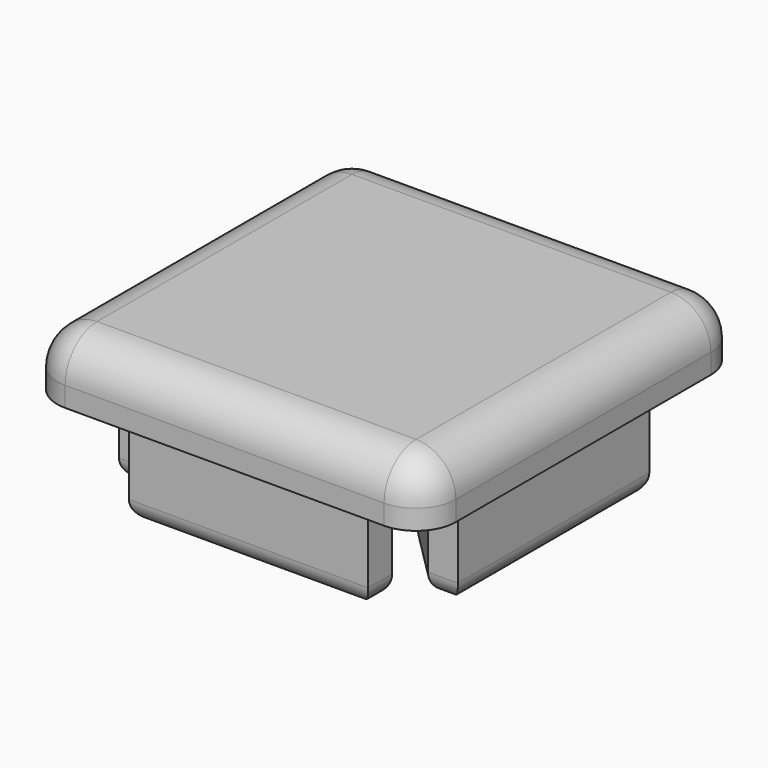
from build123d import *

# Parameters (mm, degrees)
F2_W     = 19.995908
F2_H     = 19.98147
F3_DEPTH = 3
F4_DEPTH = 5
F5_R     = 1
F6_R     = 2
F7_R     = 2


with BuildPart() as f3:
    # F2 (on Top) → F3 (new body)
    with BuildSketch(Plane.XY):
        Rectangle(F2_W, F2_H)
    extrude(amount=F3_DEPTH)

    # F1 (on Top) → F4 (join)
    with BuildSketch(Plane.XY):
        Polygon((-8.5, 6.008047), (-8.5, -5.991953), (-7, -5.991953), (-4.5, -3.491953), (-4.5, 3.508047), (-7, 6.008047), align=None)
        Polygon((6, 8.508047), (-6, 8.508047), (-6, 7.008047), (-3.5, 4.508047), (3.5, 4.508047), (6, 7.008047), align=None)
        Polygon((7, -5.991953), (8.5, -5.991953), (8.5, 6.008047), (7, 6.008047), (4.5, 3.508047), (4.5, -3.491953), align=None)
        Polygon((-6, -6.991953), (-6, -8.491953), (6, -8.491953), (6, -6.991953), (3.5, -4.491953), (-3.5, -4.491953), align=None)
    extrude(amount=-F4_DEPTH)

    # F5
    f5_edges = [f3.edges().sort_by_distance(p)[0] for p in [
        (0, 8.508047, -5),
        (-6, 7.758047, -5),
        (-4.75, 5.758047, -5),
        (0, 4.508047, -5),
        (4.75, 5.758047, -5),
        (6, 7.758047, -5),
        (-5.75, 4.758047, -5),
        (-7.75, 6.008047, -5),
        (-8.5, 0.008047, -5),
        (-7.75, -5.991953, -5),
        (-5.75, -4.741953, -5),
        (-4.5, 0.008047, -5),
        (-6, -7.741953, -5),
        (0, -8.491953, -5),
        (6, -7.741953, -5),
        (4.75, -5.741953, -5),
        (0, -4.491953, -5),
        (-4.75, -5.741953, -5),
        (5.75, -4.741953, -5),
        (7.75, -5.991953, -5),
        (8.5, 0.008047, -5),
        (7.75, 6.008047, -5),
        (5.75, 4.758047, -5),
        (4.5, 0.008047, -5),
    ]]
    fillet(f5_edges, radius=F5_R)

    # F6
    f6_edges = [f3.edges().sort_by_distance(p)[0] for p in [
        (9.997954, 9.990735, 1.5),
        (9.997954, -9.990735, 1.5),
        (-9.997954, -9.990735, 1.5),
        (-9.997954, 9.990735, 1.5),
    ]]
    fillet(f6_edges, radius=F6_R)

    # F7
    f7_edges = [f3.edges().sort_by_distance(p)[0] for p in [
        (0, -9.990735, 3),
        (-9.412167, -9.404949, 3),
        (9.412167, -9.404949, 3),
        (-9.997954, 0, 3),
        (9.997954, 0, 3),
        (-9.412167, 9.404949, 3),
        (9.412167, 9.404949, 3),
        (0, 9.990735, 3),
    ]]
    fillet(f7_edges, radius=F7_R)


solid = f3.part
